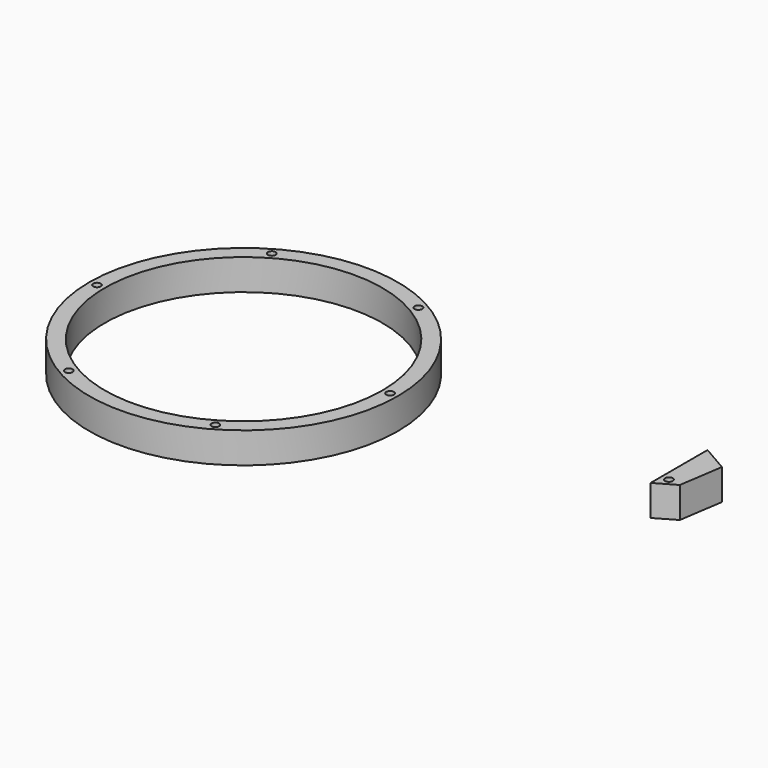
from build123d import *

# Parameters (mm, degrees)
F0_R     = 3.175
F1_DEPTH = 25.4
F3_DEPTH = 25.401
F4_R     = 127
F4_R_2   = 3.175
F4_R_3   = 114.3
F5_DEPTH = 25.4


with BuildPart() as f1:
    # F0 (on Top) → F1 (new body)
    with BuildSketch(Plane.XY):
        Polygon((-6.35, -10.998523), (44.45, 18.330871), (-6.35, 47.660265), align=None)
        Circle(F0_R, mode=Mode.SUBTRACT)
    extrude(amount=F1_DEPTH)

    # F2 (on face) → F3 (cut, through all)
    with BuildSketch(Plane.XY.offset(25.4)):
        Polygon((15.647045, 34.960265), (10.147784, -1.473523), (44.45, 18.330871), align=None)
    extrude(amount=-F3_DEPTH, mode=Mode.SUBTRACT)


with BuildPart() as f5:
    # F4 (on Top) → F5 (new body)
    with BuildSketch(Plane.XY):
        with Locations((-335.660875, -18.14553)):
            Circle(F4_R)
        with Locations((-395.985875, -122.631495)):
            Circle(F4_R_2, mode=Mode.SUBTRACT)
        with Locations((-275.335875, -122.631495)):
            Circle(F4_R_2, mode=Mode.SUBTRACT)
        with Locations((-456.310875, -18.14553)):
            Circle(F4_R_2, mode=Mode.SUBTRACT)
        with Locations((-395.985875, 86.340435)):
            Circle(F4_R_2, mode=Mode.SUBTRACT)
        with Locations((-335.660875, -18.14553)):
            Circle(F4_R_3, mode=Mode.SUBTRACT)
        with Locations((-215.010875, -18.14553)):
            Circle(F4_R_2, mode=Mode.SUBTRACT)
        with Locations((-275.335875, 86.340435)):
            Circle(F4_R_2, mode=Mode.SUBTRACT)
    extrude(amount=F5_DEPTH)


solid = Compound([f1.part, f5.part])
